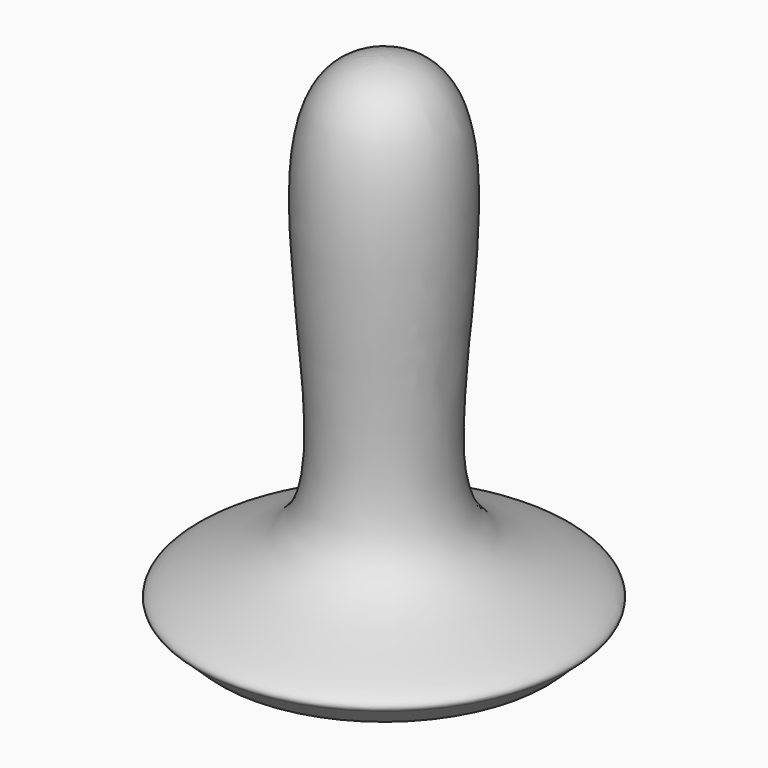
from build123d import *


with BuildPart() as f1:
    # F0 (on Front) → F1 (revolve)
    with BuildSketch(Plane.XZ):
        with BuildLine():
            Line((0, 0), (13, 0))
            Line((13, 0), (14.7388633057, 1.6369383084))
            add(Edge.make_bspline(
                [(0, 40), (5.9339183966, 40.0074827367), (6.4304438105, 25.85210174), (3.8184292326, 9.5505024715), (8.2389417128, 4.8306772537), (16.1631596642, 2.4860527315), (14.7388633057, 1.6369383084)],
                knots=[0, 0, 0, 0, 0.2926218314, 0.6125546503, 0.8125052589, 1, 1, 1, 1], degree=3))
            Line((0, 40), (0, 0))
        make_face()
    revolve(axis=Axis((0, 0, 20), (0, 0, 1)))


solid = f1.part
